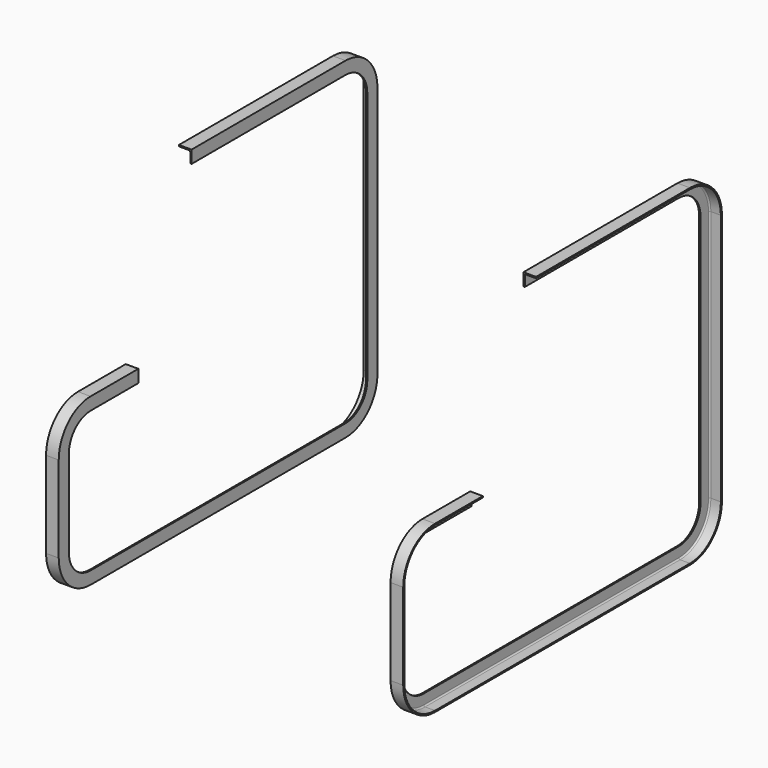
from build123d import *


with BuildPart() as f3:
    # F3: sweep along a path in F1
    with BuildLine(Plane.YZ) as f3_path:
        Line((0, 0), (-380.4324316978, 0))
        ThreePointArc((-380.4324316978, 0), (-465.2852454402, 35.1471862576), (-500.4324316978, 120))
        Line((-500.4324316978, 120), (-500.4324316978, 380))
        ThreePointArc((-500.4324316978, 380), (-465.2852454402, 464.8528137424), (-380.4324316978, 500))
        Line((-380.4324316978, 500), (-200.4324316978, 500))
    # F0 (on Front) → F3 (sweep)
    with BuildSketch(Plane.XZ):
        with BuildLine():
            Line((-38.1, 0), (0, 0))
            Line((0, 0), (0, 38.1))
            Line((0, 38.1), (-4, 38.1))
            Line((-4, 38.1), (-4, 8))
            ThreePointArc((-4, 8), (-5.1715728753, 5.1715728753), (-8, 4))
            Line((-8, 4), (-38.1, 4))
            Line((-38.1, 4), (-38.1, 0))
        make_face()
    sweep(path=f3_path.line)

    # F4: sweep along a path in F2
    with BuildLine(Plane.YZ) as f4_path:
        Line((0, 0), (580.0504732132, 0))
        ThreePointArc((580.0504732132, 0), (664.9032869556, 35.1471862576), (700.0504732132, 120))
        Line((700.0504732132, 120), (700.0504732132, 880.3487852189))
        ThreePointArc((700.0504732132, 880.3487852189), (664.8769417856, 965.2279359541), (579.9759693877, 1000.3487620905))
        Line((579.9759693877, 1000.3487620905), (0, 999.9886751175))
    # F0 (on Front) → F4 (sweep)
    with BuildSketch(Plane.XZ):
        with BuildLine():
            Line((-38.1, 0), (0, 0))
            Line((0, 0), (0, 38.1))
            Line((0, 38.1), (-4, 38.1))
            Line((-4, 38.1), (-4, 8))
            ThreePointArc((-4, 8), (-5.1715728753, 5.1715728753), (-8, 4))
            Line((-8, 4), (-38.1, 4))
            Line((-38.1, 4), (-38.1, 0))
        make_face()
    sweep(path=f4_path.line)


with BuildPart() as f6_1:
    # F6: instance of F3
    add(f3.part.mirror(Plane.YZ.offset(500)))


solid = Compound([f3.part, f6_1.part])
